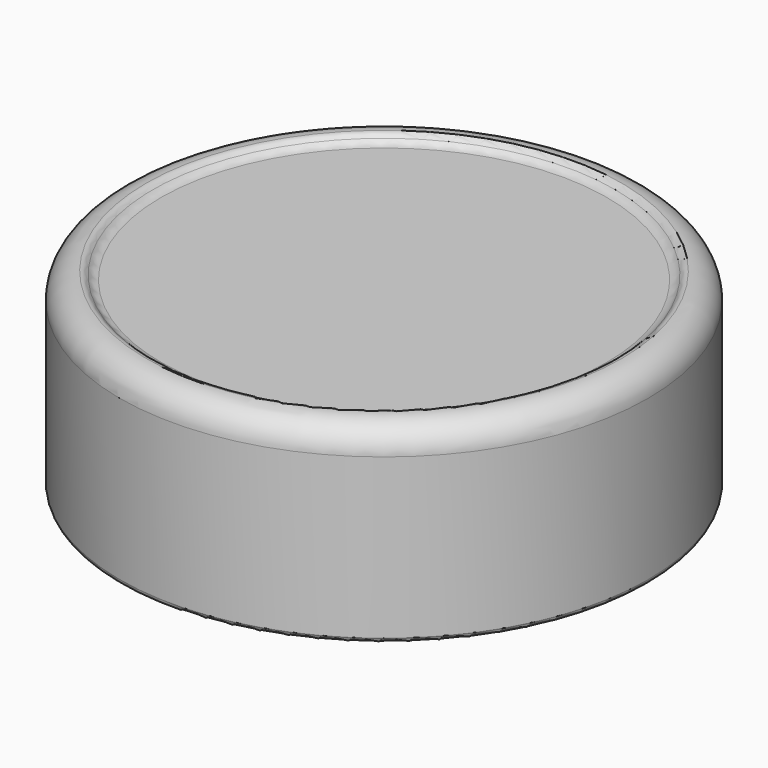
from build123d import *

# Parameters (mm, degrees)
F0_R     = 34.8107
F1_DEPTH = 25.146
F2_R     = 3.4798
F3_R     = 0.635
F6_R     = 1.27


with BuildPart() as f1:
    # F0 (on Top) → F1 (new body)
    with BuildSketch(Plane.XY):
        Circle(F0_R)
    extrude(amount=F1_DEPTH)

    # F2
    f2_edges = [f1.edges().sort_by_distance(p)[0] for p in [
        (-34.8107, 0, 25.146),
    ]]
    fillet(f2_edges, radius=F2_R)

    # F3
    f3_edges = [f1.edges().sort_by_distance(p)[0] for p in [
        (-34.8107, 0, 0),
    ]]
    fillet(f3_edges, radius=F3_R)

    # F4 (on Front) → F5 (revolve, cut)
    with BuildSketch(Plane.XZ):
        with BuildLine():
            Line((0, 25.146), (0, 24.1046))
            Line((0, 24.1046), (30.2895, 24.1046))
            ThreePointArc((30.2895, 24.1046), (30.594519, 24.840981), (31.3309, 25.146))
            Line((31.3309, 25.146), (0, 25.146))
        make_face()
    revolve(axis=Axis((0, 0, 24.6253), (0, 0, 1)), mode=Mode.SUBTRACT)

    # F6
    f6_edges = [f1.edges().sort_by_distance(p)[0] for p in [
        (-30.2895, 0, 24.1046),
    ]]
    fillet(f6_edges, radius=F6_R)


solid = f1.part
